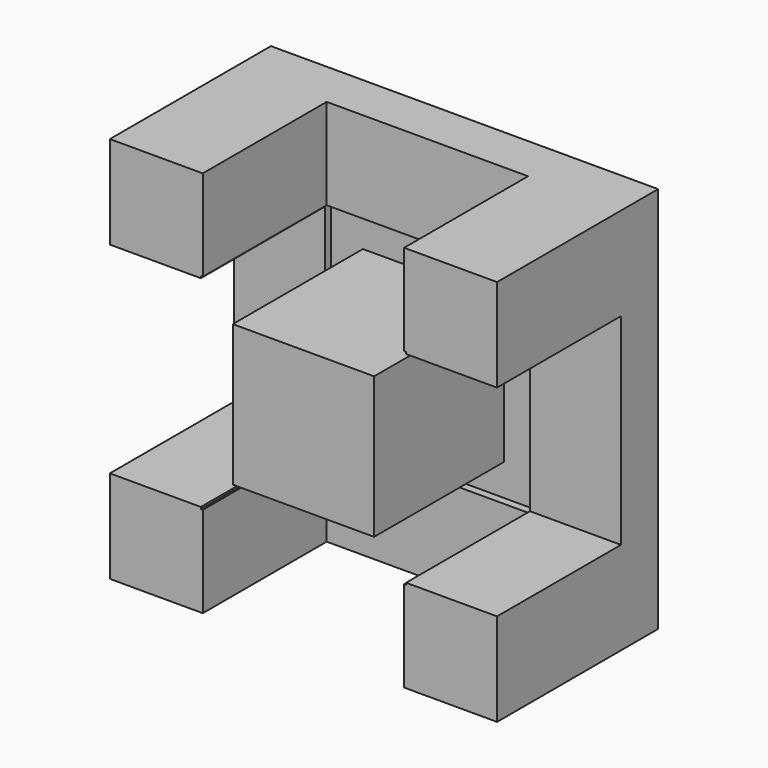
from build123d import *

# Parameters (mm, degrees)
F0_W      = 5
F0_H      = 5
F1_DEPTH  = 0.5
F2_W      = 1.825
F2_H      = 1.825
F3_DEPTH  = 2.1
F5_DEPTH  = 2.1
F6_W      = 2.6
F6_H      = 1.175
F7_DEPTH  = 0.1
F9_DEPTH  = 2.1
F10_W     = 1.175
F10_H     = 2.6
F11_DEPTH = 0.1
F13_DEPTH = 2.1
F14_W     = 2.6
F14_H     = 1.175
F15_DEPTH = 0.1
F17_DEPTH = 2.1
F18_W     = 1.175
F18_H     = 2.6
F19_DEPTH = 0.1


with BuildPart() as f1:
    # F0 (on Front) → F1 (new body)
    with BuildSketch(Plane.XZ):
        Rectangle(F0_W, F0_H)
    extrude(amount=F1_DEPTH)

    # F2 (on face) → F3 (join)
    with BuildSketch(Plane.XZ.offset(0.5)):
        Rectangle(F2_W, F2_H)
    extrude(amount=F3_DEPTH)

    # F4 (on face) → F5 (join)
    with BuildSketch(Plane.XZ.offset(0.5)):
        Polygon((-2.5, -1.3), (-2.5, -2.5), (-1.3, -2.5), (-1.3, -1.325), (-1.325, -1.325), (-1.325, -1.3), align=None)
    extrude(amount=F5_DEPTH)

    # F6 (on face) → F7 (join)
    with BuildSketch(Plane.XZ.offset(0.5)):
        with Locations((0, -1.9125)):
            Rectangle(F6_W, F6_H)
    extrude(amount=F7_DEPTH)

    # F8 (on face) → F9 (join)
    with BuildSketch(Plane.XZ.offset(0.5)):
        Polygon((1.3, -1.325), (1.3, -2.5), (2.5, -2.5), (2.5, -1.3), (1.325, -1.3), (1.325, -1.325), align=None)
    extrude(amount=F9_DEPTH)

    # F10 (on face) → F11 (join)
    with BuildSketch(Plane.XZ.offset(0.5)):
        with Locations((1.9125, 0)):
            Rectangle(F10_W, F10_H)
    extrude(amount=F11_DEPTH)

    # F12 (on face) → F13 (join)
    with BuildSketch(Plane.XZ.offset(0.5)):
        Polygon((1.325, 1.325), (1.325, 1.3), (2.5, 1.3), (2.5, 2.5), (1.3, 2.5), (1.3, 1.325), align=None)
    extrude(amount=F13_DEPTH)

    # F14 (on face) → F15 (join)
    with BuildSketch(Plane.XZ.offset(0.5)):
        with Locations((0, 1.9125)):
            Rectangle(F14_W, F14_H)
    extrude(amount=F15_DEPTH)

    # F16 (on face) → F17 (join)
    with BuildSketch(Plane.XZ.offset(0.5)):
        Polygon((-1.3, 1.325), (-1.3, 2.5), (-2.5, 2.5), (-2.5, 1.3), (-1.325, 1.3), (-1.325, 1.325), align=None)
    extrude(amount=F17_DEPTH)

    # F18 (on face) → F19 (join)
    with BuildSketch(Plane.XZ.offset(0.5)):
        with Locations((-1.9125, 0)):
            Rectangle(F18_W, F18_H)
    extrude(amount=F19_DEPTH)


solid = f1.part
